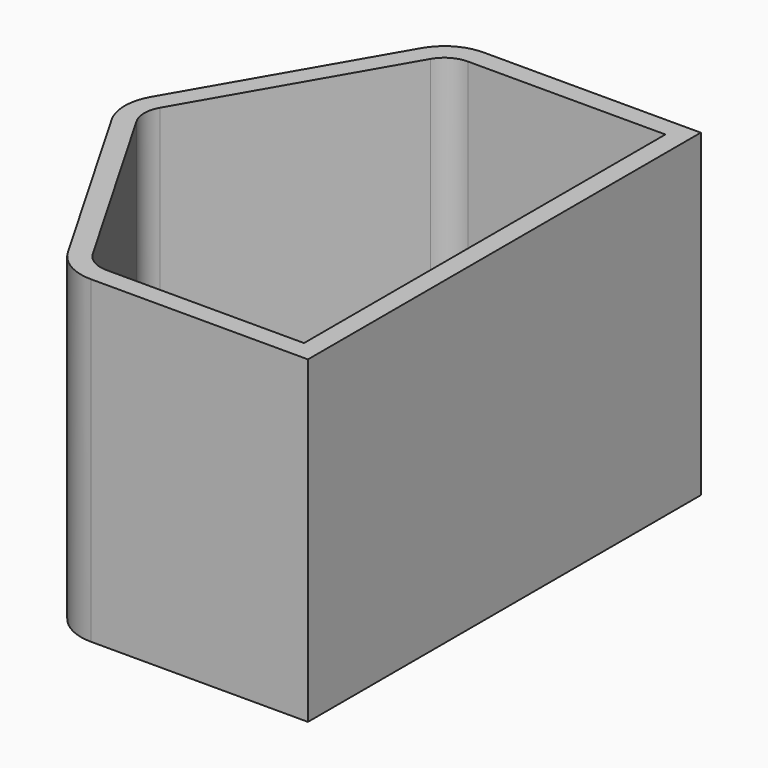
from build123d import *

# Parameters (mm, degrees)
F1_DEPTH = 33.02
F2_R     = 5.08
F4_T     = -2.032
F3_R     = 2.794
F5_DEPTH = 2.032


with BuildPart() as f1:
    # F0 (on Top) → F1 (new body)
    with BuildSketch(Plane.XY):
        Polygon((-40.064697, 25.4), (-25.4, 0), (-25.4, 25.4), align=None)
        Polygon((-40.064697, 25.4), (-25.4, 25.4), (-25.4, 50.8), align=None)
        Polygon((-25.4, 0), (0, 0), (0, 50.8), (-25.4, 50.8), (-25.4, 25.4), align=None)
    extrude(amount=F1_DEPTH)

    # F2
    f2_edges = [f1.edges().sort_by_distance(p)[0] for p in [
        (-40.064697, 25.4, 16.51),
        (-25.4, 50.8, 16.51),
        (-25.4, 0, 16.51),
    ]]
    fillet(f2_edges, radius=F2_R)

    # F4
    f4_openings = [f1.faces().sort_by_distance(p)[0] for p in [
        (-16.606713, 25.4, 33.02),
    ]]
    offset(amount=F4_T, openings=f4_openings)

    # F3 (on face) → F5 (cut)
    with BuildSketch(Plane(origin=(0, 0, 0), x_dir=(1, 0, 0), z_dir=(0, 0, -1))):
        with Locations((-11.23353, -25.4)):
            Circle(F3_R)
        with Locations((-11.23353, -38.1)):
            Circle(F3_R)
    extrude(amount=-F5_DEPTH, mode=Mode.SUBTRACT)


solid = f1.part
